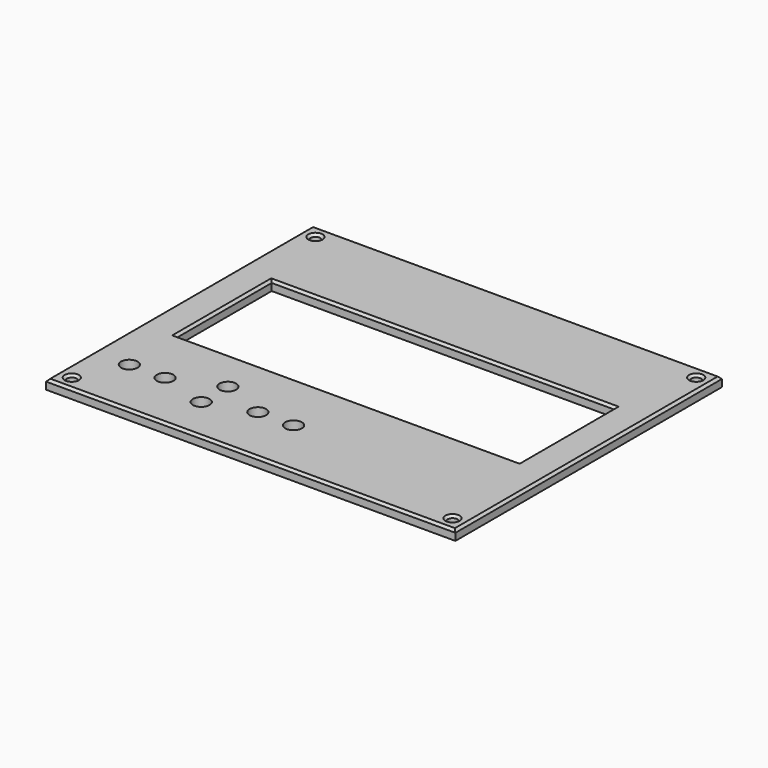
from build123d import *

# Parameters (mm, degrees)
CYLINDER009_R     = 1.75
CYLINDER009_DEPTH = 10
CYLINDER010_R     = 2.5
CYLINDER010_DEPTH = 4
CYLINDER008_R     = 1.75
CYLINDER008_DEPTH = 10
CYLINDER011_R     = 2.5
CYLINDER011_DEPTH = 4
CYLINDER007_R     = 1.75
CYLINDER007_DEPTH = 10
CYLINDER013_R     = 2.5
CYLINDER013_DEPTH = 4
CYLINDER006_R     = 1.75
CYLINDER006_DEPTH = 10
CYLINDER012_R     = 2.5
CYLINDER012_DEPTH = 4
CYLINDER005_R     = 1.75
CYLINDER005_DEPTH = 10
CYLINDER014_R     = 2.5
CYLINDER014_DEPTH = 4
CYLINDER004_R     = 1.75
CYLINDER004_DEPTH = 10
CYLINDER015_R     = 2.5
CYLINDER015_DEPTH = 4
CYLINDER003_R     = 1
CYLINDER003_DEPTH = 10
CYLINDER002_R     = 1
CYLINDER002_DEPTH = 10
CYLINDER001_R     = 1
CYLINDER001_DEPTH = 10
CYLINDER_R        = 1
CYLINDER_DEPTH    = 10
BOX001_W          = 72
BOX001_H          = 25
BOX001_DEPTH      = 10
BOX_W             = 86
BOX_H             = 70
BOX_DEPTH         = 2
CHAMFER_SIZE      = 0.5
CHAMFER001_SIZE   = 0.5


with BuildPart() as cilindro009:
    # Cylinder009 → Cylinder009 (new body)
    with BuildSketch(Plane(origin=(42, 12.5, -3), x_dir=(1, 0, 0), z_dir=(0, 0, 1))):
        Circle(CYLINDER009_R)
    extrude(amount=CYLINDER009_DEPTH)


with BuildPart() as cut011:
    # Cylinder010 → Cylinder010 (new body)
    with BuildSketch(Plane(origin=(42, 12.5, -2), x_dir=(1, 0, 0), z_dir=(0, 0, 1))):
        Circle(CYLINDER010_R)
    extrude(amount=CYLINDER010_DEPTH)

    # Cut011: cut Cilindro009
    add(cilindro009.part, mode=Mode.SUBTRACT)


with BuildPart() as cilindro008:
    # Cylinder008 → Cylinder008 (new body)
    with BuildSketch(Plane(origin=(34.5, 12.5, -3), x_dir=(1, 0, 0), z_dir=(0, 0, 1))):
        Circle(CYLINDER008_R)
    extrude(amount=CYLINDER008_DEPTH)


with BuildPart() as cut012:
    # Cylinder011 → Cylinder011 (new body)
    with BuildSketch(Plane(origin=(34.5, 12.5, -2), x_dir=(1, 0, 0), z_dir=(0, 0, 1))):
        Circle(CYLINDER011_R)
    extrude(amount=CYLINDER011_DEPTH)

    # Cut012: cut Cilindro008
    add(cilindro008.part, mode=Mode.SUBTRACT)


with BuildPart() as cilindro007:
    # Cylinder007 → Cylinder007 (new body)
    with BuildSketch(Plane(origin=(25, 9.5, -3), x_dir=(1, 0, 0), z_dir=(0, 0, 1))):
        Circle(CYLINDER007_R)
    extrude(amount=CYLINDER007_DEPTH)


with BuildPart() as cut013:
    # Cylinder013 → Cylinder013 (new body)
    with BuildSketch(Plane(origin=(25, 9.5, -2), x_dir=(1, 0, 0), z_dir=(0, 0, 1))):
        Circle(CYLINDER013_R)
    extrude(amount=CYLINDER013_DEPTH)

    # Cut013: cut Cilindro007
    add(cilindro007.part, mode=Mode.SUBTRACT)


with BuildPart() as cilindro006:
    # Cylinder006 → Cylinder006 (new body)
    with BuildSketch(Plane(origin=(25, 16.5, -3), x_dir=(1, 0, 0), z_dir=(0, 0, 1))):
        Circle(CYLINDER006_R)
    extrude(amount=CYLINDER006_DEPTH)


with BuildPart() as cut014:
    # Cylinder012 → Cylinder012 (new body)
    with BuildSketch(Plane(origin=(25, 16.5, -2), x_dir=(1, 0, 0), z_dir=(0, 0, 1))):
        Circle(CYLINDER012_R)
    extrude(amount=CYLINDER012_DEPTH)

    # Cut014: cut Cilindro006
    add(cilindro006.part, mode=Mode.SUBTRACT)


with BuildPart() as cilindro005:
    # Cylinder005 → Cylinder005 (new body)
    with BuildSketch(Plane(origin=(15, 12.5, -3), x_dir=(1, 0, 0), z_dir=(0, 0, 1))):
        Circle(CYLINDER005_R)
    extrude(amount=CYLINDER005_DEPTH)


with BuildPart() as cut015:
    # Cylinder014 → Cylinder014 (new body)
    with BuildSketch(Plane(origin=(15, 12.5, -2), x_dir=(1, 0, 0), z_dir=(0, 0, 1))):
        Circle(CYLINDER014_R)
    extrude(amount=CYLINDER014_DEPTH)

    # Cut015: cut Cilindro005
    add(cilindro005.part, mode=Mode.SUBTRACT)


with BuildPart() as cilindro004:
    # Cylinder004 → Cylinder004 (new body)
    with BuildSketch(Plane(origin=(7.5, 12.5, -3), x_dir=(1, 0, 0), z_dir=(0, 0, 1))):
        Circle(CYLINDER004_R)
    extrude(amount=CYLINDER004_DEPTH)


with BuildPart() as cut016:
    # Cylinder015 → Cylinder015 (new body)
    with BuildSketch(Plane(origin=(7.5, 12.5, -2), x_dir=(1, 0, 0), z_dir=(0, 0, 1))):
        Circle(CYLINDER015_R)
    extrude(amount=CYLINDER015_DEPTH)

    # Cut016: cut Cilindro004
    add(cilindro004.part, mode=Mode.SUBTRACT)


with BuildPart() as cilindro003:
    # Cylinder003 → Cylinder003 (new body)
    with BuildSketch(Plane(origin=(83, 67, -1), x_dir=(1, 0, 0), z_dir=(0, 0, 1))):
        Circle(CYLINDER003_R)
    extrude(amount=CYLINDER003_DEPTH)


with BuildPart() as cilindro002:
    # Cylinder002 → Cylinder002 (new body)
    with BuildSketch(Plane(origin=(83, 3, -1), x_dir=(1, 0, 0), z_dir=(0, 0, 1))):
        Circle(CYLINDER002_R)
    extrude(amount=CYLINDER002_DEPTH)


with BuildPart() as cilindro001:
    # Cylinder001 → Cylinder001 (new body)
    with BuildSketch(Plane(origin=(3, 67, -1), x_dir=(1, 0, 0), z_dir=(0, 0, 1))):
        Circle(CYLINDER001_R)
    extrude(amount=CYLINDER001_DEPTH)


with BuildPart() as cilindro:
    # Cylinder → Cylinder (new body)
    with BuildSketch(Plane(origin=(3, 3, -1), x_dir=(1, 0, 0), z_dir=(0, 0, 1))):
        Circle(CYLINDER_R)
    extrude(amount=CYLINDER_DEPTH)


with BuildPart() as cubo001:
    # Box001 → Box001 (new body)
    with BuildSketch(Plane(origin=(7, 25.5, 0), x_dir=(1, 0, 0), z_dir=(0, 0, 1))):
        with Locations((36, 12.5)):
            Rectangle(BOX001_W, BOX001_H)
    extrude(amount=BOX001_DEPTH)


with BuildPart() as fusion001:
    # Box → Box (new body)
    with BuildSketch(Plane.XY):
        with Locations((43, 35)):
            Rectangle(BOX_W, BOX_H)
    extrude(amount=BOX_DEPTH)

    # Cut: cut Cubo001
    add(cubo001.part, mode=Mode.SUBTRACT)

    # Cut001: cut Cilindro
    add(cilindro.part, mode=Mode.SUBTRACT)

    # Cut002: cut Cilindro001
    add(cilindro001.part, mode=Mode.SUBTRACT)

    # Cut003: cut Cilindro002
    add(cilindro002.part, mode=Mode.SUBTRACT)

    # Cut004: cut Cilindro003
    add(cilindro003.part, mode=Mode.SUBTRACT)

    # Cut005: cut Cilindro004
    add(cilindro004.part, mode=Mode.SUBTRACT)

    # Cut006: cut Cilindro005
    add(cilindro005.part, mode=Mode.SUBTRACT)

    # Cut007: cut Cilindro006
    add(cilindro006.part, mode=Mode.SUBTRACT)

    # Cut008: cut Cilindro007
    add(cilindro007.part, mode=Mode.SUBTRACT)

    # Cut009: cut Cilindro008
    add(cilindro008.part, mode=Mode.SUBTRACT)

    # Cut010: cut Cilindro009
    add(cilindro009.part, mode=Mode.SUBTRACT)

    # Chamfer
    chamfer_edges = [fusion001.edges().sort_by_distance(p)[0] for p in [
        (0, 35, 2),
        (43, 0, 2),
        (43, 70, 2),
        (86, 35, 2),
        (43, 25.5, 2),
        (79, 38, 2),
        (7, 38, 2),
        (43, 50.5, 2),
    ]]
    chamfer(chamfer_edges, length=CHAMFER_SIZE)

    # Chamfer001
    chamfer001_edges = [fusion001.edges().sort_by_distance(p)[0] for p in [
        (2, 3, 2),
        (82, 3, 2),
        (2, 67, 2),
        (82, 67, 2),
    ]]
    chamfer(chamfer001_edges, length=CHAMFER001_SIZE)

    # Fusion: union Cut011, Cut012, Cut013, Cut014, Cut015, Cut016
    add(cut011.part)
    add(cut012.part)
    add(cut013.part)
    add(cut014.part)
    add(cut015.part)
    add(cut016.part)


solid = fusion001.part
